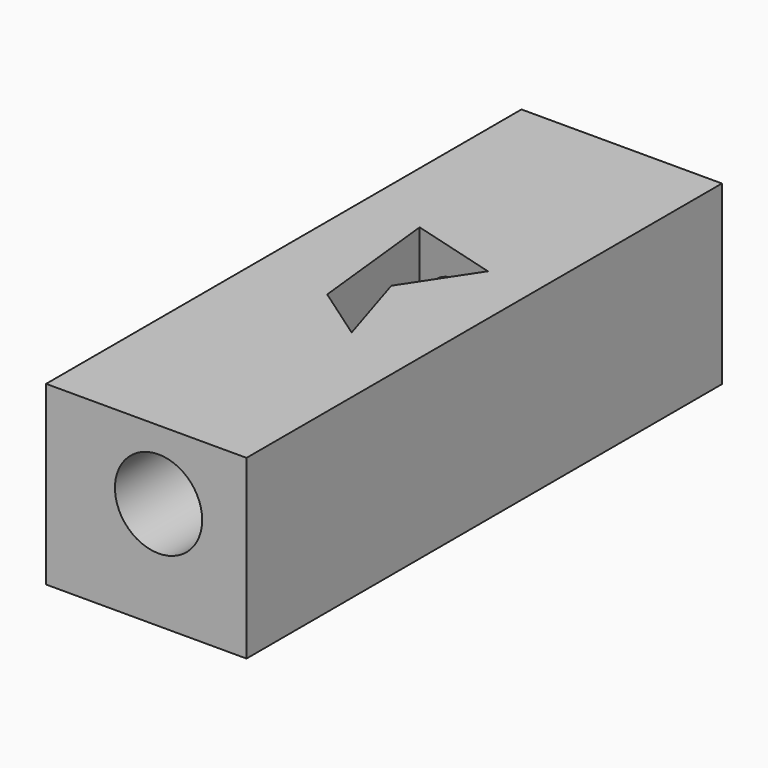
from build123d import *

# Parameters (mm, degrees)
F0_W     = 85.677929
F0_H     = 75.528391
F1_DEPTH = 254
F2_R     = 18.645275
F3_DEPTH = 254.001
F5_DEPTH = 127


with BuildPart() as f1:
    # F0 (on Front) → F1 (new body)
    with BuildSketch(Plane.XZ):
        with Locations((42.838964, 37.764195)):
            Rectangle(F0_W, F0_H)
    extrude(amount=F1_DEPTH)

    # F2 (on face) → F3 (cut, through all)
    with BuildSketch(Plane.XZ.offset(254)):
        with Locations((48.073757, 45.977701)):
            Circle(F2_R)
    extrude(amount=-F3_DEPTH, mode=Mode.SUBTRACT)

    # F4 (on face) → F5 (cut)
    with BuildSketch(Plane.XY.offset(75.528391)):
        Polygon((64.327642, -98.35007), (26.675224, -87.756582), (32.912441, -144.928277), (56.481365, -161.33453), (45.67463, -126.652271), align=None)
    extrude(amount=-F5_DEPTH, mode=Mode.SUBTRACT)


solid = f1.part
